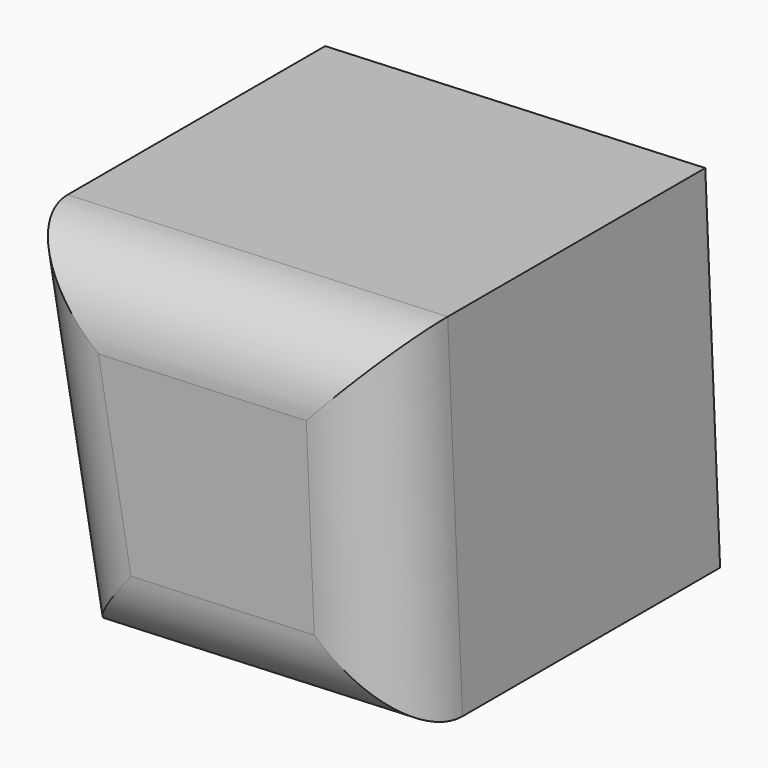
from build123d import *

# Parameters (mm, degrees)
F1_DEPTH = 76.2
F2_R     = 12.7
F3_SIZE  = 12.7


with BuildPart() as f1:
    # F0 (on Front) → F1 (new body)
    with BuildSketch(Plane.XZ):
        Polygon((35.114609, 27.737115), (-24.852807, 25.171665), (-15.263049, -29.26831), (37.456854, -27.012915), align=None)
    extrude(amount=F1_DEPTH)

    # F2
    f2_edges = [f1.edges().sort_by_distance(p)[0] for p in [
        (5.130901, -76.2, 26.45439),
        (36.285732, -76.2, 0.3621),
        (11.096903, -76.2, -28.140613),
        (-20.057928, -76.2, -2.048322),
    ]]
    fillet(f2_edges, radius=F2_R)

    # F3
    f3_edges = [f1.edges().sort_by_distance(p)[0] for p in [
        (11.096903, 0, -28.140613),
        (5.130901, 0, 26.45439),
        (36.285732, 0, 0.3621),
        (-20.057928, 0, -2.048322),
    ]]
    chamfer(f3_edges, length=F3_SIZE)


solid = f1.part
